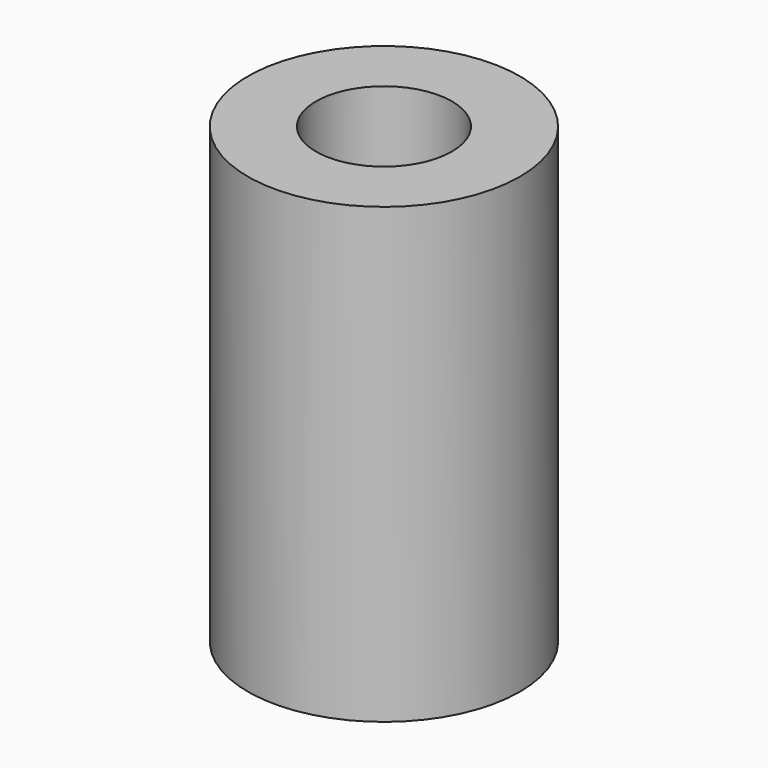
from build123d import *

# Parameters (mm, degrees)
CYLINDER003_R     = 1.5
CYLINDER003_DEPTH = 30
CYLINDER001_R     = 3
CYLINDER001_DEPTH = 10


with BuildPart() as screw_cutout:
    # Cylinder003 → Cylinder003 (new body)
    with BuildSketch(Plane.XY):
        Circle(CYLINDER003_R)
    extrude(amount=CYLINDER003_DEPTH)


with BuildPart() as cut:
    # Cylinder001 → Cylinder001 (new body)
    with BuildSketch(Plane.XY.offset(15)):
        Circle(CYLINDER001_R)
    extrude(amount=CYLINDER001_DEPTH)

    # Cut: cut screw cutout
    add(screw_cutout.part, mode=Mode.SUBTRACT)


solid = cut.part
